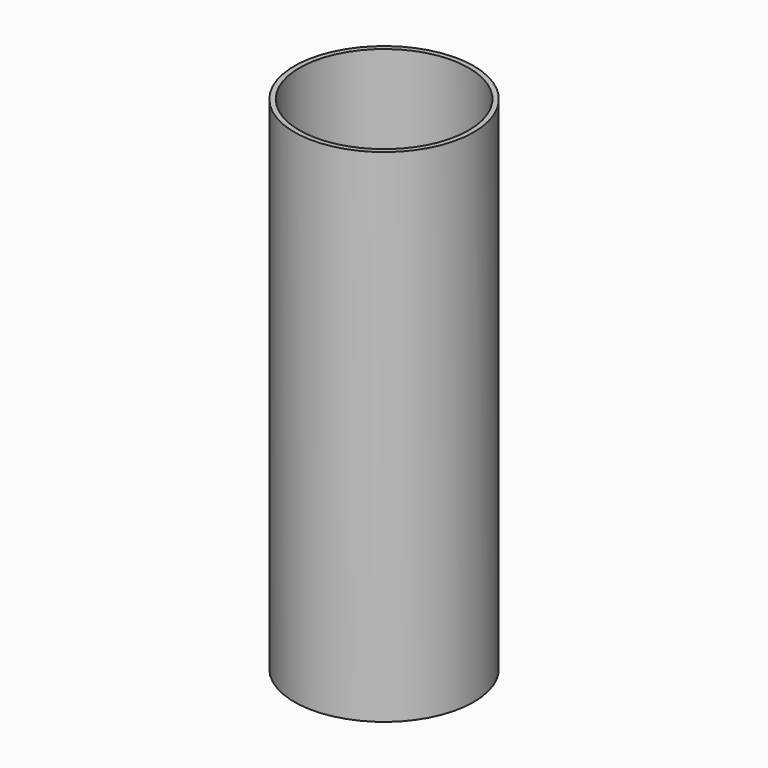
from build123d import *

# Parameters (mm, degrees)
SKETCH_R   = 7.15
SKETCH_R_2 = 6.75
PAD_DEPTH  = 40


with BuildPart() as part:
    # Sketch → Pad (new body)
    with BuildSketch(Plane.XY):
        Circle(SKETCH_R)
        Circle(SKETCH_R_2, mode=Mode.SUBTRACT)
    extrude(amount=PAD_DEPTH)


solid = part.part
